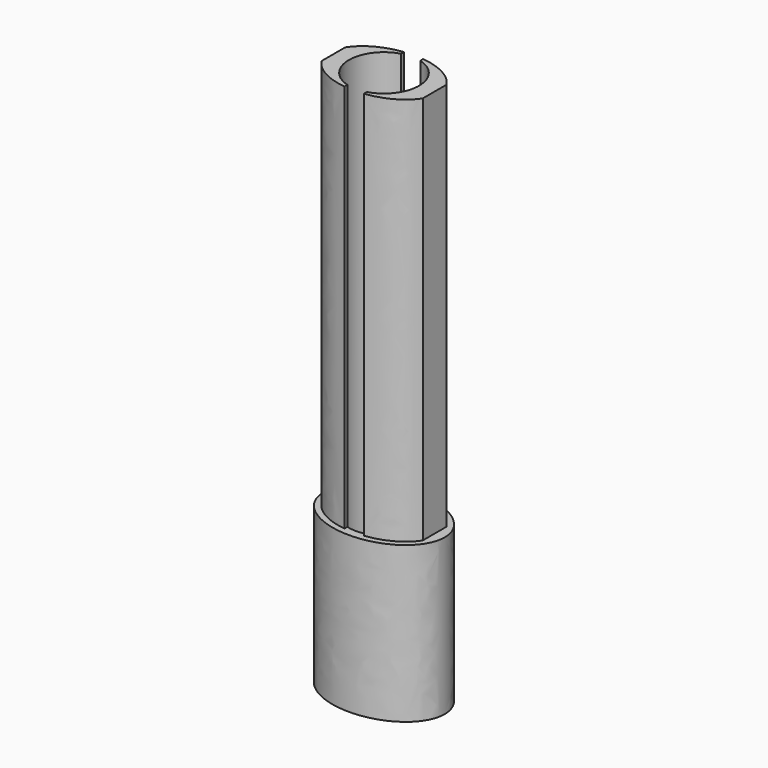
from build123d import *

# Parameters (mm, degrees)
F1_DEPTH = 40
F3_DEPTH = 100
F4_D     = 18


with BuildPart() as f1:
    # F0 (on Top) → F1 (new body)
    with BuildSketch(Plane.XY):
        with BuildLine():
            add(Edge.make_bspline(
                [(15.6, 0), (15.6, 19.4855715851), (-7.8, 9.7427857926), (-31.2, 0), (-7.8, -9.7427857926), (15.6, -19.4855715851), (15.6, 0)],
                knots=[0, 0, 0, 2.0943951024, 2.0943951024, 4.1887902048, 4.1887902048, 6.2831853072, 6.2831853072, 6.2831853072], degree=2, weights=[1, 0.5, 1, 0.5, 1, 0.5, 1]))
        make_face()
    extrude(amount=F1_DEPTH)

    # F2 (on face) → F3 (join)
    with BuildSketch(Plane.XY.offset(40)):
        with BuildLine():
            Line((13, -3.7754305964), (13, 3.7754305964))
            add(Edge.make_bspline(
                [(13, 3.7754305964), (10.0008243028, 8.7134157016), (2.36524422, 9.6118419115)],
                knots=[0.3976184106, 0.3976184106, 0.3976184106, 1.4022516591, 1.4022516591, 1.4022516591], degree=2, weights=[1, 0.8764695592, 1]))
            Line((2.36524422, 9.6118419115), (2.5, -9.5955205899))
            add(Edge.make_bspline(
                [(2.5, -9.5955205899), (10.0352130742, -8.6567963974), (13, -3.7754305964)],
                knots=[4.8906363292, 4.8906363292, 4.8906363292, 5.8855668966, 5.8855668966, 5.8855668966], degree=2, weights=[1, 0.8787949492, 1]))
        make_face()
        with BuildLine():
            add(Edge.make_bspline(
                [(-2.5, 9.5955205899), (-10.0352130742, 8.6567963974), (-13, 3.7754305964)],
                knots=[1.7490436756, 1.7490436756, 1.7490436756, 2.743974243, 2.743974243, 2.743974243], degree=2, weights=[1, 0.8787949492, 1]))
            Line((-13, 3.7754305964), (-13, -3.7754305964))
            add(Edge.make_bspline(
                [(-13, -3.7754305964), (-10.0352130742, -8.6567963974), (-2.5, -9.5955205899)],
                knots=[3.5392110642, 3.5392110642, 3.5392110642, 4.5341416316, 4.5341416316, 4.5341416316], degree=2, weights=[1, 0.8787949492, 1]))
            Line((-2.5, -9.5955205899), (-2.5, 9.5955205899))
        make_face()
    extrude(amount=F3_DEPTH)

    # F4 (through all)
    with Locations(Plane(origin=(0, 0, 0), x_dir=(1, 0, 0), z_dir=(0, 0, -1))):
        with Locations((0, 0)):
            Hole(F4_D / 2)


solid = f1.part
